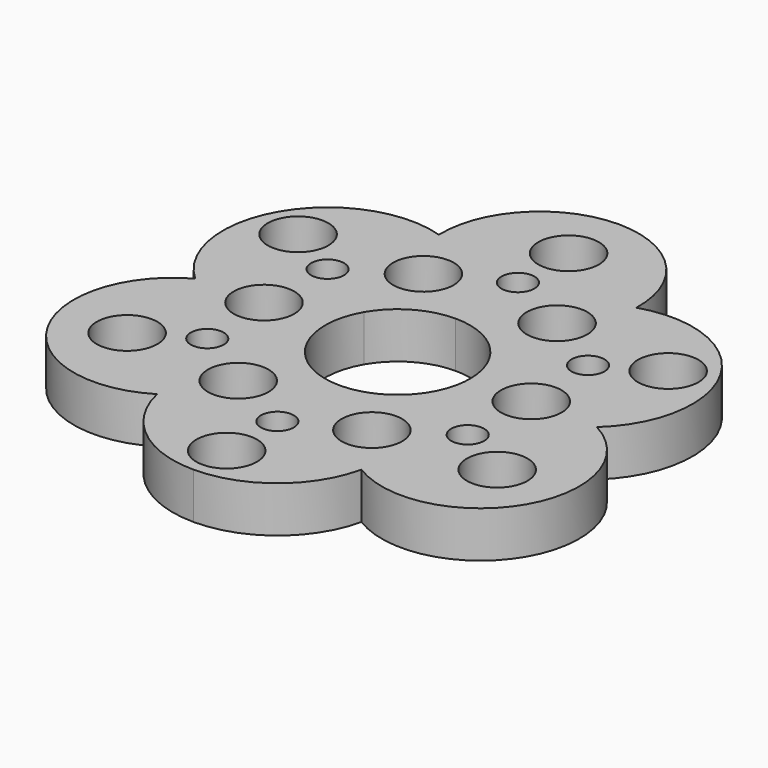
from build123d import *

# Parameters (mm, degrees)
F0_R     = 4.6
F1_DEPTH = 7


with BuildPart() as f1:
    # F0 (on Top) → F1 (new body)
    with BuildSketch(Plane.XY):
        with BuildLine():
            ThreePointArc((0, -11), (9.526279, -5.5), (9.526279, 5.5))
            ThreePointArc((9.526279, 5.5), (5.5, 9.526279), (0, 11))
            ThreePointArc((0, 11), (-5.5, 9.526279), (-9.526279, 5.5))
            ThreePointArc((-9.526279, 5.5), (-9.526279, -5.5), (0, -11))
        make_face()
        with BuildLine():
            ThreePointArc((30.503112, -0.297745), (35.473737, 8.998164), (33.530649, 19.358929))
            ThreePointArc((33.530649, 19.358929), (25.529507, 26.222075), (14.993701, 26.565342))
            ThreePointArc((14.993701, 26.565342), (0, 42), (-14.993701, 26.565342))
            ThreePointArc((-14.993701, 26.565342), (-25.529507, 26.222075), (-33.530649, 19.358929))
            ThreePointArc((-33.530649, 19.358929), (-35.473737, 8.998164), (-30.503112, -0.297745))
            ThreePointArc((-30.503112, -0.297745), (-36.373067, -21), (-15.50941, -26.267597))
            ThreePointArc((-15.50941, -26.267597), (-9.94423, -35.22024), (0, -38.717858))
            ThreePointArc((0, -38.717858), (9.94423, -35.22024), (15.50941, -26.267597))
            ThreePointArc((15.50941, -26.267597), (36.373067, -21), (30.503112, -0.297745))
        make_face()
        with Locations((-28.102526, -16.225001)):
            Circle(F0_R, mode=Mode.SUBTRACT)
        with BuildLine():
            ThreePointArc((-17.608563, -10.166308), (-18.523626, -13.581372), (-21.93869, -12.666308))
            ThreePointArc((-21.93869, -12.666308), (-21.023626, -9.251245), (-17.608563, -10.166308))
        make_face(mode=Mode.SUBTRACT)
        with Locations((-20.29141, 0)):
            Circle(F0_R, mode=Mode.SUBTRACT)
        with Locations((-10.145705, -17.572877)):
            Circle(F0_R, mode=Mode.SUBTRACT)
        with Locations((0, -32.450002)):
            Circle(F0_R, mode=Mode.SUBTRACT)
        with BuildLine():
            ThreePointArc((0, -20.332617), (2.5, -22.832617), (0, -25.332617))
            ThreePointArc((0, -25.332617), (-2.5, -22.832617), (0, -20.332617))
        make_face(mode=Mode.SUBTRACT)
        with Locations((10.145705, -17.572877)):
            Circle(F0_R, mode=Mode.SUBTRACT)
        with BuildLine():
            ThreePointArc((0, 11), (5.5, 9.526279), (9.526279, 5.5))
            ThreePointArc((9.526279, 5.5), (9.526279, -5.5), (0, -11))
            ThreePointArc((0, -11), (-9.526279, -5.5), (-9.526279, 5.5))
            ThreePointArc((-9.526279, 5.5), (-5.5, 9.526279), (0, 11))
        make_face(mode=Mode.SUBTRACT)
        with Locations((28.102526, -16.225001)):
            Circle(F0_R, mode=Mode.SUBTRACT)
        with BuildLine():
            ThreePointArc((17.608563, -10.166308), (21.023626, -9.251245), (21.93869, -12.666308))
            ThreePointArc((21.93869, -12.666308), (18.523626, -13.581372), (17.608563, -10.166308))
        make_face(mode=Mode.SUBTRACT)
        with Locations((20.29141, 0)):
            Circle(F0_R, mode=Mode.SUBTRACT)
        with BuildLine():
            ThreePointArc((-17.608563, 10.166308), (-21.023626, 9.251245), (-21.93869, 12.666308))
            ThreePointArc((-21.93869, 12.666308), (-18.523626, 13.581372), (-17.608563, 10.166308))
        make_face(mode=Mode.SUBTRACT)
        with Locations((-28.102526, 16.225001)):
            Circle(F0_R, mode=Mode.SUBTRACT)
        with Locations((-10.145705, 17.572877)):
            Circle(F0_R, mode=Mode.SUBTRACT)
        with Locations((10.145705, 17.572877)):
            Circle(F0_R, mode=Mode.SUBTRACT)
        with BuildLine():
            ThreePointArc((17.608563, 10.166308), (18.523626, 13.581372), (21.93869, 12.666308))
            ThreePointArc((21.93869, 12.666308), (21.023626, 9.251245), (17.608563, 10.166308))
        make_face(mode=Mode.SUBTRACT)
        with Locations((28.102526, 16.225001)):
            Circle(F0_R, mode=Mode.SUBTRACT)
        with BuildLine():
            ThreePointArc((0, 20.332617), (-2.5, 22.832617), (0, 25.332617))
            ThreePointArc((0, 25.332617), (2.5, 22.832617), (0, 20.332617))
        make_face(mode=Mode.SUBTRACT)
        with Locations((0, 32.450002)):
            Circle(F0_R, mode=Mode.SUBTRACT)
    extrude(amount=F1_DEPTH)


solid = f1.part
